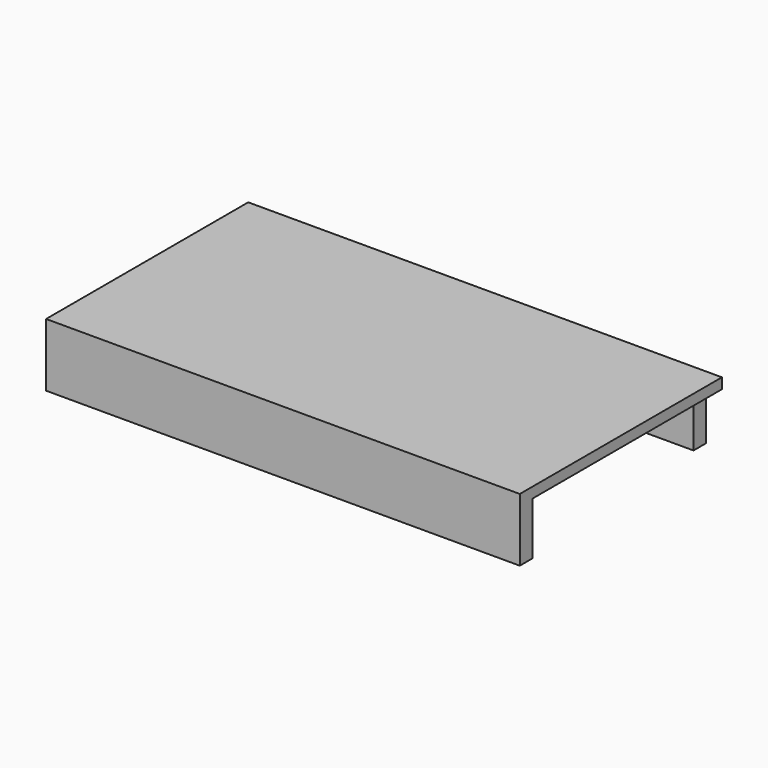
from build123d import *

# Parameters (mm, degrees)
F0_W     = 571.5
F0_H     = 304.8
F1_DEPTH = 12.7
F2_W     = 19.05
F2_H     = 63.5
F3_DEPTH = 285.75
F4_W     = 19.05
F4_H     = 63.5
F5_DEPTH = 266.7


with BuildPart() as f1:
    # F0 (on Top) → F1 (new body)
    with BuildSketch(Plane.XY):
        Rectangle(F0_W, F0_H)
    extrude(amount=F1_DEPTH)

    # F2 (on Right) → F3 (join, symmetric)
    with BuildSketch(Plane.YZ):
        with Locations((-142.875, -31.75)):
            Rectangle(F2_W, F2_H)
    extrude(amount=F3_DEPTH, both=True)

    # F4 (on Right) → F5 (join, symmetric)
    with BuildSketch(Plane.YZ):
        with Locations((142.875, -31.75)):
            Rectangle(F4_W, F4_H)
    extrude(amount=F5_DEPTH, both=True)


solid = f1.part
